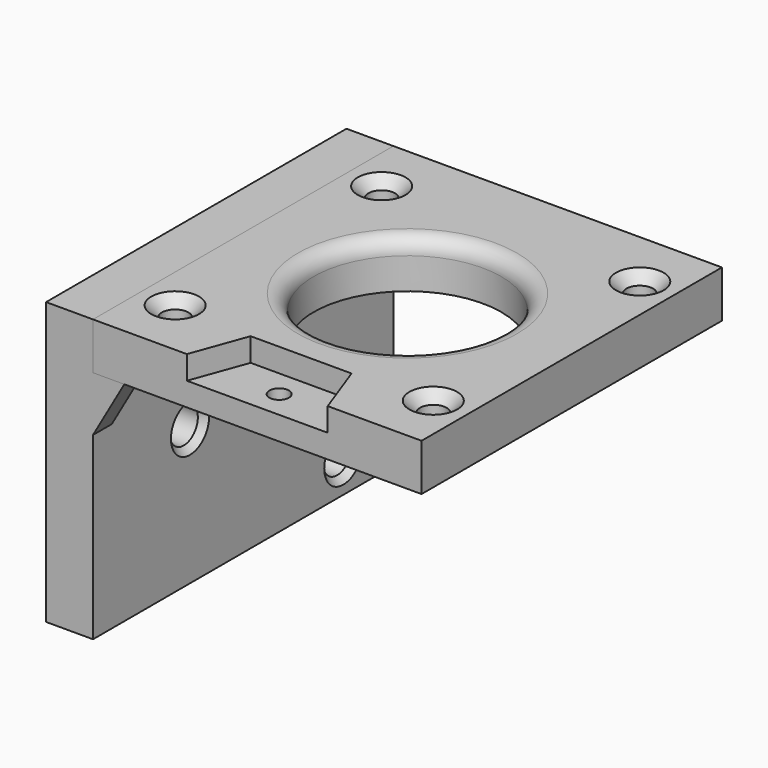
from build123d import *

# Parameters (mm, degrees)
BINDER016_W         = 48
BINDER016_H         = 42
PAD009_DEPTH        = 6
HOLE007_D           = 3.4
HOLE007_CSINK_D     = 6.1
HOLE007_CSINK_ANGLE = 90
SKETCH030_R         = 12
POCKET008_DEPTH     = 6.001
FILLET003_R         = 2
POCKET012_DEPTH     = 3
SKETCH040_R         = 1.25
POCKET013_DEPTH     = 3.001
SKETCH028_W         = 6
SKETCH028_H         = 48
PAD010_DEPTH        = 6
PAD010_DEPTH_BACK   = 30
PAD011_DEPTH        = 3
HOLE011_D           = 4.5
HOLE011_DEPTH       = 25
HOLE011_CSINK_D     = 6.1
HOLE011_CSINK_ANGLE = 90


with BuildPart() as body013:
    # Binder016 → Pad009 (new body)
    with BuildSketch(Plane(origin=(0, 0, 0), x_dir=(0, 1, 0), z_dir=(0, 0, 1))):
        Rectangle(BINDER016_W, BINDER016_H)
    extrude(amount=PAD009_DEPTH)

    # Hole007 (through all)
    with Locations(Plane.XY.offset(6)):
        with Locations((-16.5, 16.5), (-16.5, -16.5), (16.5, -16.5), (16.5, 16.5)):
            CounterSinkHole(HOLE007_D / 2, HOLE007_CSINK_D / 2, counter_sink_angle=HOLE007_CSINK_ANGLE)

    # Sketch030 (on Face5 of Hole007) → Pocket008 (cut, through all)
    with BuildSketch(Plane.XY.offset(6)):
        Circle(SKETCH030_R)
    extrude(amount=-POCKET008_DEPTH, mode=Mode.SUBTRACT)

    # Fillet003
    fillet003_edges = [body013.edges().sort_by_distance(p)[0] for p in [
        (-12, 0, 6),
    ]]
    fillet(fillet003_edges, radius=FILLET003_R)

    # Sketch031 (on Face1 of Fillet003) → Pocket012 (cut)
    with BuildSketch(Plane.XY.offset(6)):
        Polygon((-9, -24), (-6.452208, -17), (6.452208, -17), (9, -24), align=None)
    extrude(amount=-POCKET012_DEPTH, mode=Mode.SUBTRACT)

    # Sketch040 (on Face15 of Pocket012) → Pocket013 (cut, through all)
    with BuildSketch(Plane.XY.offset(3)):
        with Locations((0, -20.5)):
            Circle(SKETCH040_R)
    extrude(amount=-POCKET013_DEPTH, mode=Mode.SUBTRACT)


with BuildPart() as body014:
    # Sketch028 (on Face1 of Binder017) → Pad010 (new body, two sides)
    with BuildSketch(Plane.XY) as pad010_sk:
        with Locations((-24, 0)):
            Rectangle(SKETCH028_W, SKETCH028_H)
    extrude(amount=PAD010_DEPTH)
    extrude(pad010_sk.sketch, amount=-PAD010_DEPTH_BACK)

    # Sketch029 (on Face3 of Pad010) → Pad011 (join)
    with BuildSketch(Plane.XZ.offset(24)):
        Polygon((-21, 0), (-21, -7), (-17, 0), align=None)
    pad011 = extrude(amount=-PAD011_DEPTH)

    # Mirrored003: Pad011 across XZ
    add(pad011.mirror(Plane.XZ))

    # Hole011
    with Locations(Plane(origin=(-21, 24, 0), x_dir=(0, 1, 0), z_dir=(1, 0, 0))):
        with Locations((-32.5, -12.5), (-8, -25.81125)):
            CounterSinkHole(HOLE011_D / 2, HOLE011_CSINK_D / 2, depth=HOLE011_DEPTH, counter_sink_angle=HOLE011_CSINK_ANGLE)


solid = Compound([body013.part, body014.part])
